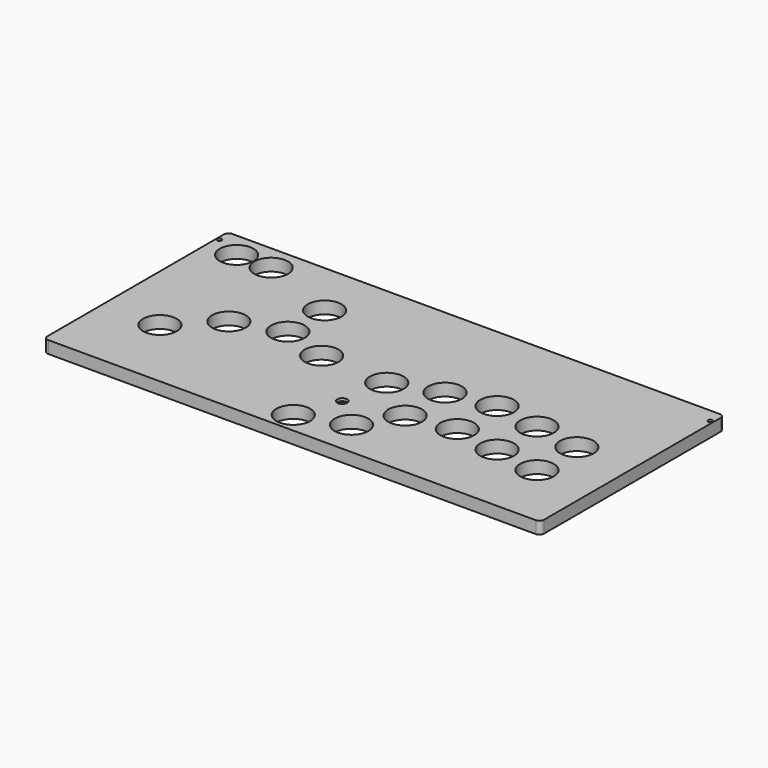
from build123d import *

# Parameters (mm, degrees)
PAD002_DEPTH  = 8
SKETCH008_R   = 11
HOLE001_DEPTH = 8
SKETCH009_R   = 1.4
HOLE002_DEPTH = 8
SKETCH010_R   = 3.25
HOLE003_DEPTH = 1.7


with BuildPart() as part:
    # Sketch007 → Pad002 (new body)
    with BuildSketch(Plane.XY):
        with BuildLine():
            Line((-159, -1), (159, -1))
            ThreePointArc((162, -4), (161.12132, -1.87868), (159, -1))
            Line((162, -4), (162, -148))
            ThreePointArc((159, -151), (161.12132, -150.12132), (162, -148))
            Line((159, -151), (-159, -151))
            ThreePointArc((-162, -148), (-161.12132, -150.12132), (-159, -151))
            Line((-162, -148), (-162, -4))
            ThreePointArc((-159, -1), (-161.12132, -1.87868), (-162, -4))
        make_face()
    extrude(amount=PAD002_DEPTH)

    # Sketch008 → Hole001 (cut)
    with BuildSketch(Plane.XY):
        with Locations((-142.75, -17.7)):
            Circle(SKETCH008_R)
        with Locations((-120.25, -17.7)):
            Circle(SKETCH008_R)
        with Locations((-69.5, -37.5)):
            Circle(SKETCH008_R)
        with Locations((-69.5, -67.5)):
            Circle(SKETCH008_R)
        with Locations((-100, -77.5)):
            Circle(SKETCH008_R)
        with Locations((-125, -102.5)):
            Circle(SKETCH008_R)
        with Locations((-39.5, -77.5)):
            Circle(SKETCH008_R)
        with Locations((5, -80)):
            Circle(SKETCH008_R)
        with Locations((35, -70)):
            Circle(SKETCH008_R)
        with Locations((65, -65)):
            Circle(SKETCH008_R)
        with Locations((95, -70)):
            Circle(SKETCH008_R)
        with Locations((125, -75)):
            Circle(SKETCH008_R)
        with Locations((-10, -137.5)):
            Circle(SKETCH008_R)
        with Locations((20, -127.5)):
            Circle(SKETCH008_R)
        with Locations((35, -102.5)):
            Circle(SKETCH008_R)
        with Locations((65, -97.5)):
            Circle(SKETCH008_R)
        with Locations((95, -102.5)):
            Circle(SKETCH008_R)
        with Locations((125, -107.5)):
            Circle(SKETCH008_R)
    extrude(amount=HOLE001_DEPTH, mode=Mode.SUBTRACT)

    # Sketch009 → Hole002 (cut)
    with BuildSketch(Plane.XY):
        with Locations((0, -210)):
            Circle(SKETCH009_R)
        with Locations((160, -210)):
            Circle(SKETCH009_R)
        with Locations((160, -10)):
            Circle(SKETCH009_R)
        with Locations((-160, -210)):
            Circle(SKETCH009_R)
        with Locations((-160, -10)):
            Circle(SKETCH009_R)
        with Locations((0, -110)):
            Circle(SKETCH009_R)
    extrude(amount=HOLE002_DEPTH, mode=Mode.SUBTRACT)

    # Sketch010 → Hole003 (cut)
    with BuildSketch(Plane(origin=(0, 0, 8), x_dir=(-1, 0, 0), z_dir=(0, 0, 1))):
        with Locations((0, 110)):
            Circle(SKETCH010_R)
    extrude(amount=-HOLE003_DEPTH, mode=Mode.SUBTRACT)


with BuildPart() as part_1:
    # Body001 placement: moved
    add(part.part.moved(Location((0, 0, 5.11))))


solid = part_1.part
